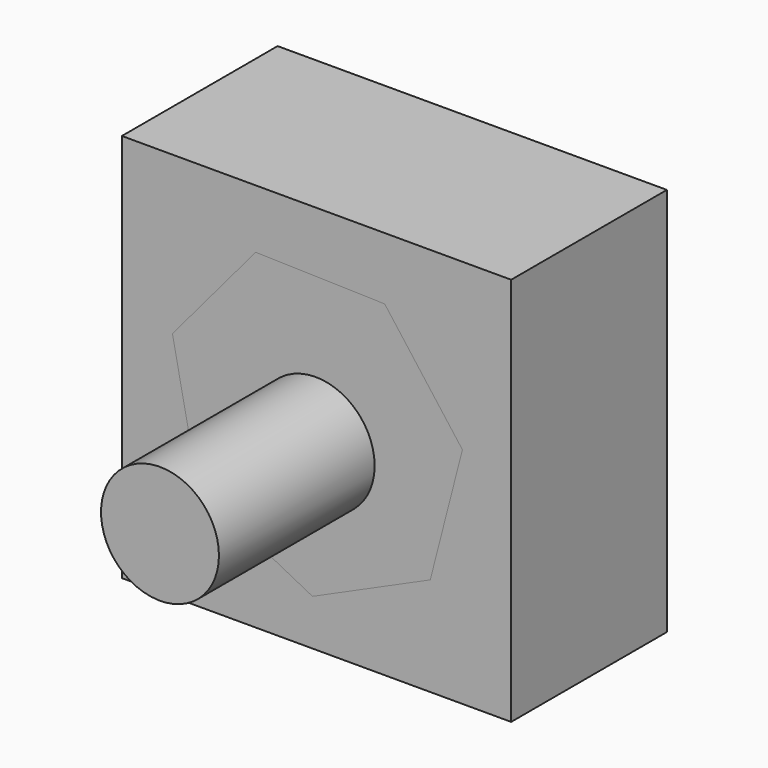
from build123d import *

# Parameters (mm, degrees)
F1_W     = 50.8
F1_H     = 50.8
F2_DEPTH = 25.4
F0_W     = 50.8
F0_H     = 50.8
F3_DEPTH = 25.4
F4_R     = 7.6936182882
F5_DEPTH = 25.4


with BuildPart() as f2:
    # F1 (on face) → F2 (new body)
    with BuildSketch(Plane.XZ):
        with Locations((-5.6516751647, 8.6300779854)):
            Rectangle(F1_W, F1_H)
        Polygon((-13.5950920682, 26.3433895766), (3.2445100648, 25.8845605331), (13.3851032709, 12.4327542039), (9.1906140355, -3.8825448783), (-6.1804216952, -10.7755837332), (-21.153300504, -3.0557635107), (-24.4531392567, 13.4637337061), align=None, mode=Mode.SUBTRACT)
        Polygon((13.3851032709, 12.4327542039), (3.2445100648, 25.8845605331), (-13.5950920682, 26.3433895766), (-24.4531392567, 13.4637337061), (-21.153300504, -3.0557635107), (-6.1804216952, -10.7755837332), (9.1906140355, -3.8825448783), align=None)
    extrude(amount=F2_DEPTH)


with BuildPart() as f2b:
    # F0 (on Front) → F2, piece 2 (new body)
    with BuildSketch(Plane.XZ):
        with Locations((-5.6516751647, 8.6300779854)):
            Rectangle(F0_W, F0_H)
    extrude(amount=F2_DEPTH)


with BuildPart() as f3:
    # F1 (on face) → F3 (new body)
    with BuildSketch(Plane.XZ):
        Polygon((13.3851032709, 12.4327542039), (3.2445100648, 25.8845605331), (-13.5950920682, 26.3433895766), (-24.4531392567, 13.4637337061), (-21.153300504, -3.0557635107), (-6.1804216952, -10.7755837332), (9.1906140355, -3.8825448783), align=None)
    extrude(amount=F3_DEPTH)


with BuildPart() as f5:
    # F4 (on face) → F5 (new body)
    with BuildSketch(Plane.XZ.offset(25.4)):
        with Locations((-5.7624927722, 6.8706646562)):
            Circle(F4_R)
    extrude(amount=F5_DEPTH)


solid = Compound([f2.part, f2b.part, f3.part, f5.part])
